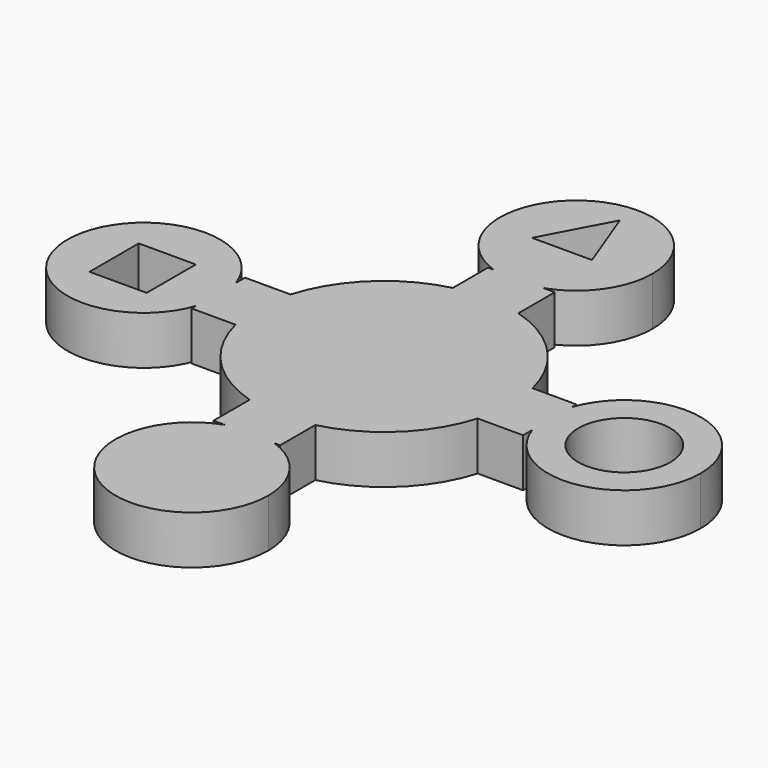
from build123d import *

# Parameters (mm, degrees)
F1_DEPTH = 6.35
F2_W     = 7.482951507
F2_H     = 8.058561245
F3_DEPTH = 59.436
F2_R     = 6.0344313248
F4_DEPTH = 108.458


with BuildPart() as f1:
    # F0 (on Top) → F1 (new body)
    with BuildSketch(Plane.XY):
        with BuildLine():
            ThreePointArc((16.061134272, -4.7487956472), (16.5757420089, -2.3991396488), (16.7484654282, 0))
            ThreePointArc((16.7484654282, 0), (16.627209939, 2.0117116707), (16.2651992014, 3.9942945733))
            Line((16.2651992014, 3.9942945733), (16.061134272, -4.7487956472))
        make_face()
        with BuildLine():
            ThreePointArc((16.2651992014, 3.9942945733), (16.627209939, 2.0117116707), (16.7484654282, 0))
            ThreePointArc((16.7484654282, 0), (16.5757420089, -2.3991396488), (16.061134272, -4.7487956472))
            Line((16.061134272, -4.7487956472), (22.0171436027, -4.7487956472))
            Line((22.0171436027, -4.7487956472), (22.0171436027, -3.2589072692))
            ThreePointArc((22.0171436027, -3.2589072692), (21.4715103831, 0), (22.0171436027, 3.2589072692))
            Line((22.0171436027, 3.2589072692), (22.0171436027, 3.9942945733))
            Line((22.0171436027, 3.9942945733), (16.2651992014, 3.9942945733))
        make_face()
        with BuildLine():
            Line((16.061134272, -4.7487956472), (16.2651992014, 3.9942945733))
            ThreePointArc((16.2651992014, 3.9942945733), (12.1160699054, 11.5633880956), (4.7487956472, 16.061134272))
            Line((4.7487956472, 16.061134272), (-3.9942945733, 16.2651992014))
            ThreePointArc((-3.9942945733, 16.2651992014), (-11.5633880956, 12.1160699054), (-16.061134272, 4.7487956472))
            Line((-16.061134272, 4.7487956472), (-16.2651992014, -3.9942945733))
            ThreePointArc((-16.2651992014, -3.9942945733), (-12.1160699054, -11.5633880956), (-4.7487956472, -16.061134272))
            Line((-4.7487956472, -16.061134272), (3.9942945733, -16.2651992014))
            ThreePointArc((3.9942945733, -16.2651992014), (11.5633880956, -12.1160699054), (16.061134272, -4.7487956472))
        make_face()
        with BuildLine():
            Line((-3.9942945733, 16.2651992014), (4.7487956472, 16.061134272))
            ThreePointArc((4.7487956472, 16.061134272), (0.3908050556, 16.7439053273), (-3.9942945733, 16.2651992014))
        make_face()
        with BuildLine():
            ThreePointArc((-3.9942945733, 16.2651992014), (0.3908050556, 16.7439053273), (4.7487956472, 16.061134272))
            Line((4.7487956472, 16.061134272), (4.7487956472, 22.0171436027))
            Line((4.7487956472, 22.0171436027), (3.2589072692, 22.0171436027))
            ThreePointArc((3.2589072692, 22.0171436027), (0, 21.4715103831), (-3.2589072692, 22.0171436027))
            Line((-3.2589072692, 22.0171436027), (-3.9942945733, 22.0171436027))
            Line((-3.9942945733, 22.0171436027), (-3.9942945733, 16.2651992014))
        make_face()
        with BuildLine():
            Line((3.9942945733, -22.0171436027), (3.9942945733, -16.2651992014))
            ThreePointArc((3.9942945733, -16.2651992014), (-0.3908050556, -16.7439053273), (-4.7487956472, -16.061134272))
            Line((-4.7487956472, -16.061134272), (-4.7487956472, -22.0171436027))
            Line((-4.7487956472, -22.0171436027), (-3.2589072692, -22.0171436027))
            ThreePointArc((-3.2589072692, -22.0171436027), (0, -21.4715103831), (3.2589072692, -22.0171436027))
            Line((3.2589072692, -22.0171436027), (3.9942945733, -22.0171436027))
        make_face()
        with BuildLine():
            ThreePointArc((-4.7487956472, -16.061134272), (-0.3908050556, -16.7439053273), (3.9942945733, -16.2651992014))
            Line((3.9942945733, -16.2651992014), (-4.7487956472, -16.061134272))
        make_face()
        with BuildLine():
            ThreePointArc((41.4816413794, 0), (33.1287102734, 9.8677144047), (22.0171436027, 3.2589072692))
            Line((22.0171436027, 3.2589072692), (22.0171436027, -3.2589072692))
            ThreePointArc((22.0171436027, -3.2589072692), (33.1287102734, -9.8677144047), (41.4816413794, 0))
        make_face()
        with BuildLine():
            Line((22.0171436027, -3.2589072692), (22.0171436027, 3.2589072692))
            ThreePointArc((22.0171436027, 3.2589072692), (21.4715103831, 0), (22.0171436027, -3.2589072692))
        make_face()
        with BuildLine():
            Line((-16.2651992014, -3.9942945733), (-16.061134272, 4.7487956472))
            ThreePointArc((-16.061134272, 4.7487956472), (-16.7439053273, 0.3908050556), (-16.2651992014, -3.9942945733))
        make_face()
        with BuildLine():
            ThreePointArc((-16.2651992014, -3.9942945733), (-16.7439053273, 0.3908050556), (-16.061134272, 4.7487956472))
            Line((-16.061134272, 4.7487956472), (-22.0171436027, 4.7487956472))
            Line((-22.0171436027, 4.7487956472), (-22.0171436027, 3.2589072692))
            ThreePointArc((-22.0171436027, 3.2589072692), (-21.6088614766, 1.6521343922), (-21.4715103831, 0))
            ThreePointArc((-21.4715103831, 0), (-21.6088614766, -1.6521343922), (-22.0171436027, -3.2589072692))
            Line((-22.0171436027, -3.2589072692), (-22.0171436027, -3.9942945733))
            Line((-22.0171436027, -3.9942945733), (-16.2651992014, -3.9942945733))
        make_face()
        with BuildLine():
            ThreePointArc((-3.2589072692, 22.0171436027), (0, 21.4715103831), (3.2589072692, 22.0171436027))
            Line((3.2589072692, 22.0171436027), (-3.2589072692, 22.0171436027))
        make_face()
        with BuildLine():
            Line((-3.2589072692, 22.0171436027), (3.2589072692, 22.0171436027))
            ThreePointArc((3.2589072692, 22.0171436027), (8.1457632025, 25.667283543), (10.0050654981, 31.4765758812))
            ThreePointArc((10.0050654981, 31.4765758812), (-5.8092923382, 39.6223390837), (-3.2589072692, 22.0171436027))
        make_face()
        with BuildLine():
            ThreePointArc((10.0050654981, -31.4765758812), (8.1457632025, -25.667283543), (3.2589072692, -22.0171436027))
            Line((3.2589072692, -22.0171436027), (-3.2589072692, -22.0171436027))
            ThreePointArc((-3.2589072692, -22.0171436027), (-5.8092923382, -39.6223390837), (10.0050654981, -31.4765758812))
        make_face()
        with BuildLine():
            Line((-3.2589072692, -22.0171436027), (3.2589072692, -22.0171436027))
            ThreePointArc((3.2589072692, -22.0171436027), (0, -21.4715103831), (-3.2589072692, -22.0171436027))
        make_face()
        with BuildLine():
            ThreePointArc((-21.4715103831, 0), (-21.6088614766, 1.6521343922), (-22.0171436027, 3.2589072692))
            Line((-22.0171436027, 3.2589072692), (-22.0171436027, -3.2589072692))
            ThreePointArc((-22.0171436027, -3.2589072692), (-21.6088614766, -1.6521343922), (-21.4715103831, 0))
        make_face()
        with BuildLine():
            Line((-22.0171436027, -3.2589072692), (-22.0171436027, 3.2589072692))
            ThreePointArc((-22.0171436027, 3.2589072692), (-41.4816413794, 0), (-22.0171436027, -3.2589072692))
        make_face()
    extrude(amount=F1_DEPTH)

    # F2 (on face) → F3 (cut)
    with BuildSketch(Plane.XY.offset(6.35)):
        with Locations((-31.5147312358, -0.1439027255)):
            Rectangle(F2_W, F2_H)
    extrude(amount=-F3_DEPTH, mode=Mode.SUBTRACT)

    # F2 (on face) → F4 (cut)
    with BuildSketch(Plane.XY.offset(6.35)):
        with Locations((31.4765758812, 0)):
            Circle(F2_R)
        Polygon((3.2589072692, 29.9774594605), (0, 38.620531559), (-4.6109691992, 29.9774594605), align=None)
    extrude(amount=-F4_DEPTH, mode=Mode.SUBTRACT)


solid = f1.part
